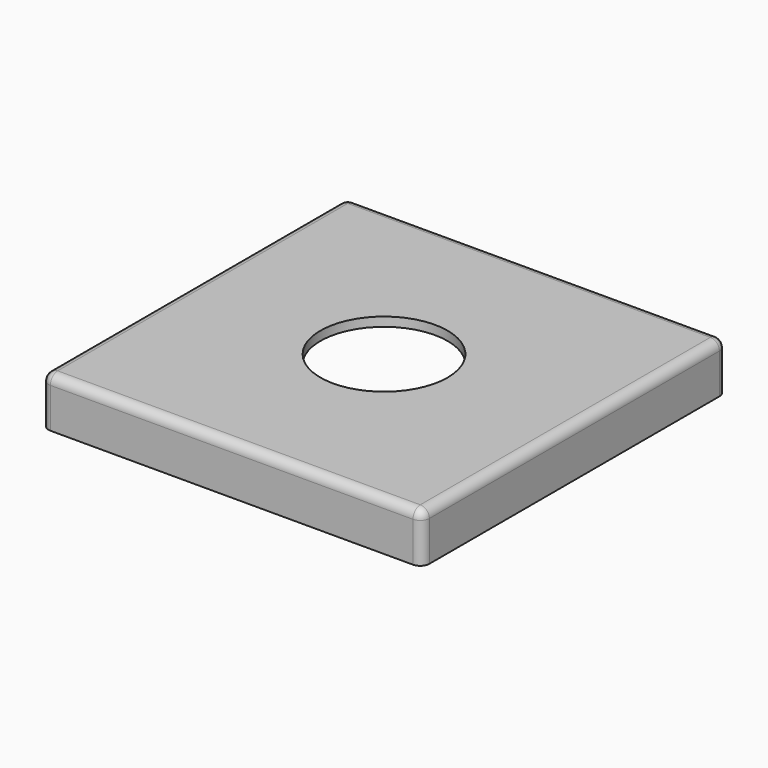
from build123d import *

# Parameters (mm, degrees)
F0_W     = 66.548
F0_H     = 66.548
F0_R     = 11.1125
F1_DEPTH = 1.5875
F2_W     = 66.548
F2_H     = 66.548
F2_W_2   = 64.897
F2_H_2   = 64.897
F3_DEPTH = 6.985
F5_DEPTH = 2.54
F7_DEPTH = 2.54
F8_R     = 1.5875


with BuildPart() as f1:
    # F0 (on Top) → F1 (new body)
    with BuildSketch(Plane.XY):
        Rectangle(F0_W, F0_H)
        Circle(F0_R, mode=Mode.SUBTRACT)
    extrude(amount=F1_DEPTH)

    # F2 (on face) → F3 (join)
    with BuildSketch(Plane(origin=(0, 0, 0), x_dir=(1, 0, 0), z_dir=(0, 0, -1))):
        Rectangle(F2_W, F2_H)
        Rectangle(F2_W_2, F2_H_2, mode=Mode.SUBTRACT)
    extrude(amount=F3_DEPTH)

    # F4 (on Front) → F5 (join, symmetric)
    with BuildSketch(Plane.XZ):
        Polygon((32.4485, -4.1275), (32.4485, -2.54), (29.9085, -2.54), align=None)
        Polygon((-32.512, -4.1275), (-29.972, -2.54), (-32.512, -2.54), align=None)
    extrude(amount=F5_DEPTH, both=True)

    # F6 (on Right) → F7 (join, symmetric)
    with BuildSketch(Plane.YZ):
        Polygon((32.4485, -4.1275), (32.4485, -2.54), (29.9085, -2.54), align=None)
        Polygon((-32.4485, -4.1275), (-29.9085, -2.54), (-32.4485, -2.54), align=None)
    extrude(amount=F7_DEPTH, both=True)

    # F8
    f8_edges = [f1.edges().sort_by_distance(p)[0] for p in [
        (-33.274, 0, 1.5875),
        (0, 33.274, 1.5875),
        (33.274, 0, 1.5875),
        (0, -33.274, 1.5875),
        (-33.274, 33.274, -2.69875),
        (-33.274, -33.274, -2.69875),
        (33.274, -33.274, -2.69875),
        (33.274, 33.274, -2.69875),
    ]]
    fillet(f8_edges, radius=F8_R)


solid = f1.part
